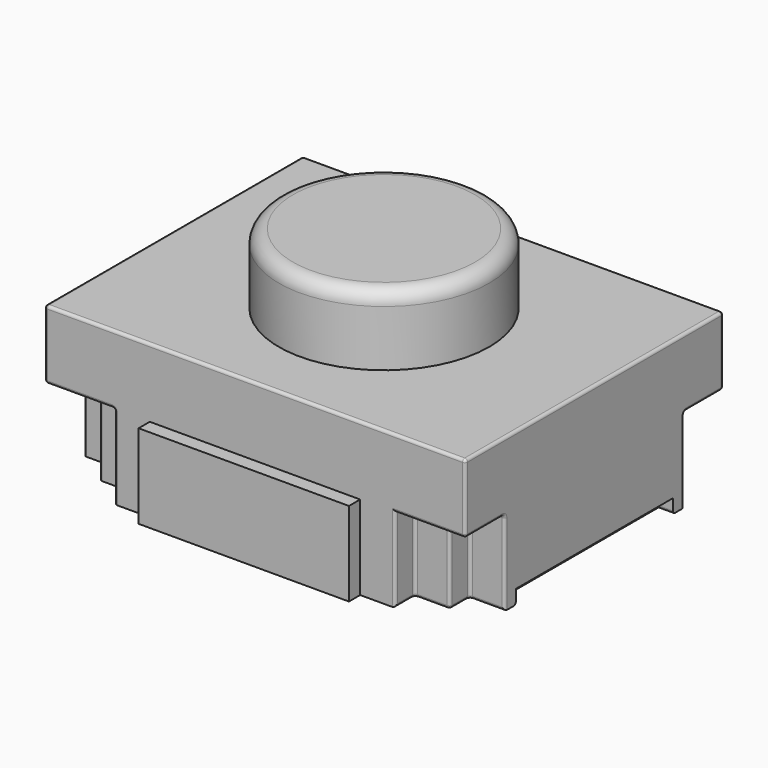
from build123d import *

# Parameters (mm, degrees)
SKETCH010_R             = 0.75
EXTRUDE_SKETCH010_DEPTH = 0.5
FILLET001_R             = 0.1
PAD001_DEPTH            = 0.1
PAD005_DEPTH            = 0.5
SKETCH009_W             = 3
SKETCH009_H             = 2.3
PAD006_DEPTH            = 0.49
FILLET_R                = 0.02
FILLET002002_R          = 0.02


with BuildPart() as fillet001:
    # Sketch010 (on Face45 of Fillet) → Extrude_Sketch010 (new body)
    with BuildSketch(Plane.XY.offset(1.09)):
        Circle(SKETCH010_R)
    extrude(amount=EXTRUDE_SKETCH010_DEPTH)

    # Fillet001
    fillet001_edges = [fillet001.edges().sort_by_distance(p)[0] for p in [
        (-0.75, 0, 1.59),
    ]]
    fillet(fillet001_edges, radius=FILLET001_R)


with BuildPart() as f_8_fillet002002:
    # Sketch004 → Pad001 (new body)
    with BuildSketch(Plane.XY):
        Polygon((0.75, -1.15), (0.75, -1.25), (-0.75, -1.25), (-0.75, -1.15), (-1, -1.15), (-1, -0.975), (-1.25, -0.975), (-1.25, -0.8), (-1.5, -0.8), (-1.5, -0.7), (-1.4, -0.7), (-1.4, 0.7), (-1.5, 0.7), (-1.5, 0.8), (-1.25, 0.8), (-1.25, 0.975), (-1, 0.975), (-1, 1.15), (-0.75, 1.15), (-0.75, 1.25), (0.75, 1.25), (0.75, 1.15), (1, 1.15), (1, 0.975), (1.25, 0.975), (1.25, 0.8), (1.5, 0.8), (1.5, 0.7), (1.4, 0.7), (1.4, -0.7), (1.5, -0.7), (1.5, -0.8), (1.25, -0.8), (1.25, -0.975), (1, -0.975), (1, -1.15), align=None)
    extrude(amount=PAD001_DEPTH)

    # Sketch008 (on Face38 of Pad001) → Pad005 (new body)
    with BuildSketch(Plane.XY.offset(0.1)):
        Polygon((-1.5, 0.8), (-1.5, -0.8), (-1.25, -0.8), (-1.25, -0.975), (-1, -0.975), (-1, -1.15), (-0.75, -1.15), (-0.75, -1.25), (0.75, -1.25), (0.75, -1.15), (1, -1.15), (1, -0.975), (1.25, -0.975), (1.25, -0.8), (1.5, -0.8), (1.5, 0.8), (1.25, 0.8), (1.25, 0.975), (1, 0.975), (1, 1.15), (0.75, 1.15), (0.75, 1.25), (-0.75, 1.25), (-0.75, 1.15), (-1, 1.15), (-1, 0.975), (-1.25, 0.975), (-1.25, 0.8), align=None)
    extrude(amount=PAD005_DEPTH)

    # Sketch009 (on Face1 of Pad005) → Pad006 (new body)
    with BuildSketch(Plane.XY.offset(0.6)):
        Rectangle(SKETCH009_W, SKETCH009_H)
    extrude(amount=PAD006_DEPTH)

    # Fillet
    fillet_edges = [f_8_fillet002002.edges().sort_by_distance(p)[0] for p in [
        (1.375, -0.8, 0),
        (1.25, -0.8875, 0),
        (1.125, -0.975, 0),
        (1, -1.0625, 0),
        (-1.375, 0.8, 0),
        (-1.25, 0.8875, 0),
        (-1.125, 0.975, 0),
        (-1, 1.0625, 0),
        (1, 1.0625, 0),
        (1.125, 0.975, 0),
        (1.25, 0.8875, 0),
        (1.375, 0.8, 0),
        (1.5, -0.8, 0.3),
        (1.375, -0.8, 0.6),
        (1.25, -0.8, 0.3),
        (1.25, -0.8875, 0.6),
        (1.25, -0.975, 0.3),
        (1.125, -0.975, 0.6),
        (1, -0.975, 0.3),
        (1, -1.15, 0.3),
        (-1, -1.15, 0.3),
        (-1, -1.0625, 0.6),
        (-1, -0.975, 0.3),
        (-1.125, -0.975, 0.6),
        (-1.25, -0.975, 0.3),
        (-1.25, -0.8875, 0.6),
        (-1.25, -0.8, 0.3),
        (-1.375, -0.8, 0.6),
        (-1.5, -0.8, 0.3),
        (-1.5, 0.8, 0.3),
        (-1.375, 0.8, 0.6),
        (-1.25, 0.8, 0.3),
        (-1.25, 0.8875, 0.6),
        (-1.25, 0.975, 0.3),
        (-1.125, 0.975, 0.6),
        (-1, 0.975, 0.3),
        (-1, 1.0625, 0.6),
        (-1, 1.15, 0.3),
        (1, 0.975, 0.3),
        (1, 1.15, 0.3),
        (1.25, 0.975, 0.3),
        (1.125, 0.975, 0.6),
        (1.25, 0.8, 0.3),
        (1.25, 0.8875, 0.6),
        (1.5, 0.8, 0.3),
        (1.375, 0.8, 0.6),
        (1.5, -0.975, 0.6),
        (1.25, -1.15, 0.6),
        (-1.25, -1.15, 0.6),
        (-1.5, -0.975, 0.6),
        (-1.25, 1.15, 0.6),
        (-1.5, 0.975, 0.6),
        (1.25, 1.15, 0.6),
        (1.5, 0.975, 0.6),
        (1.5, -1.15, 0.845),
        (-1.5, -1.15, 0.845),
        (-1.5, 1.15, 0.845),
        (1.5, 1.15, 0.845),
    ]]
    fillet(fillet_edges, radius=FILLET_R)

    # Fusion002: union Fillet001
    add(fillet001.part)

    # Fillet002002
    fillet002002_edges = [f_8_fillet002002.edges().sort_by_distance(p)[0] for p in [
        (1.45, -0.7, 0),
        (1.4, 0, 0),
        (1.45, 0.7, 0),
        (-1.45, -0.7, 0),
        (-1.4, 0, 0),
        (-1.45, 0.7, 0),
        (0, -1.15, 1.09),
        (1.5, 0, 1.09),
        (-1.5, 0, 1.09),
        (0, 1.15, 1.09),
    ]]
    fillet(fillet002002_edges, radius=FILLET002002_R)


solid = f_8_fillet002002.part
